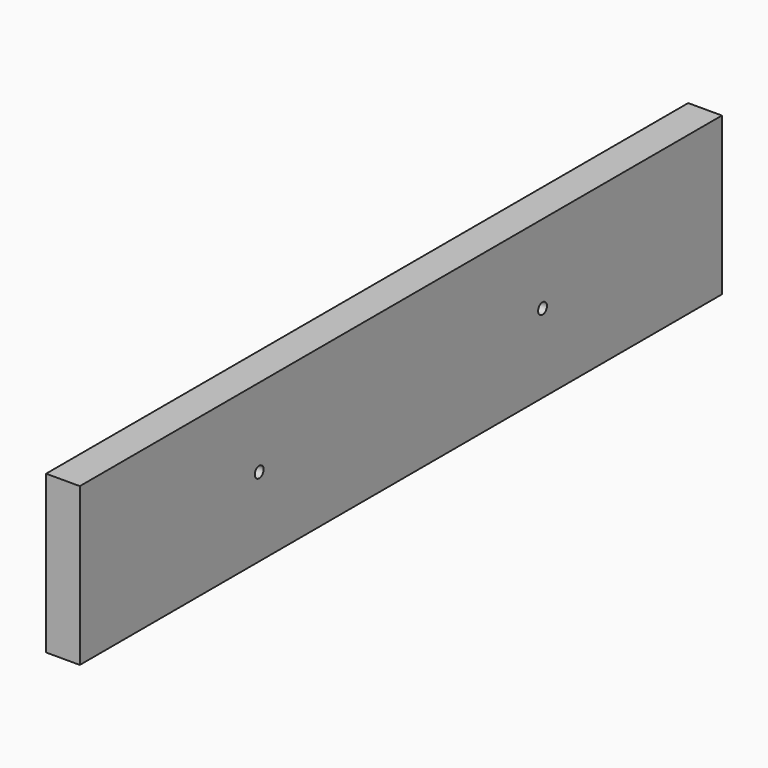
from build123d import *

# Parameters (mm, degrees)
SKETCH_W     = 19.05
SKETCH_H     = 88.9
PAD_DEPTH    = 453.25
SKETCH001_R  = 3.125
POCKET_DEPTH = 19.051


with BuildPart() as part:
    # Sketch → Pad (new body)
    with BuildSketch(Plane.XZ):
        with Locations((9.525, 44.45)):
            Rectangle(SKETCH_W, SKETCH_H)
    extrude(amount=PAD_DEPTH)

    # Sketch001 (on Face4 of Pad) → Pocket (cut, through all)
    with BuildSketch(Plane(origin=(0, 0, 0), x_dir=(0, 0, -1), z_dir=(-1, 0, 0))):
        with Locations((-44.45, 126.625)):
            Circle(SKETCH001_R)
        with Locations((-44.45, 326.625)):
            Circle(SKETCH001_R)
    extrude(amount=-POCKET_DEPTH, mode=Mode.SUBTRACT)


solid = part.part
